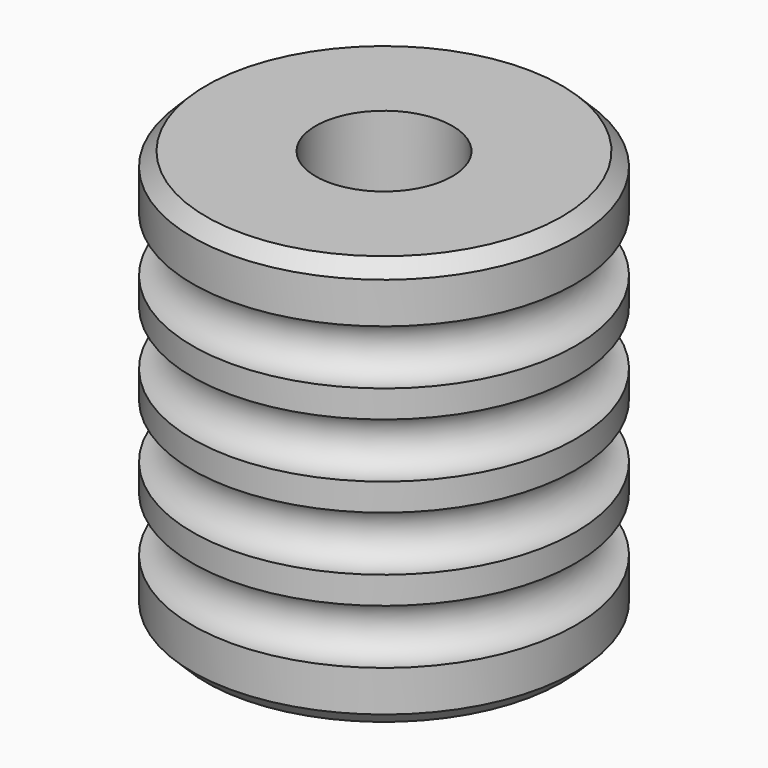
from build123d import *

# Parameters (mm, degrees)
F0_R     = 7
F0_R_2   = 2.5
F1_DEPTH = 15
F2_R     = 5
F3_DEPTH = 5
F4_SIZE  = 0.5
F5_R     = 1


with BuildPart() as f1:
    # F0 (on Top) → F1 (new body)
    with BuildSketch(Plane.XY):
        Circle(F0_R)
        Circle(F0_R_2, mode=Mode.SUBTRACT)
    extrude(amount=F1_DEPTH)

    # F2 (on face) → F3 (cut)
    with BuildSketch(Plane(origin=(0, 0, 0), x_dir=(1, 0, 0), z_dir=(0, 0, -1))):
        Circle(F2_R)
    extrude(amount=-F3_DEPTH, mode=Mode.SUBTRACT)

    # F4
    f4_edges = [f1.edges().sort_by_distance(p)[0] for p in [
        (-7, 0, 15),
        (-7, 0, 0),
    ]]
    chamfer(f4_edges, length=F4_SIZE)

    # F5 (on Right) → F6 (revolve, cut)
    with BuildSketch(Plane.YZ):
        with Locations((7, 12)):
            Circle(F5_R)
        with Locations((7, 9)):
            Circle(F5_R)
        with Locations((7, 6)):
            Circle(F5_R)
        with Locations((7, 3)):
            Circle(F5_R)
    revolve(axis=Axis((0, 0, 7.640201), (0, 0, -1)), mode=Mode.SUBTRACT)


solid = f1.part
